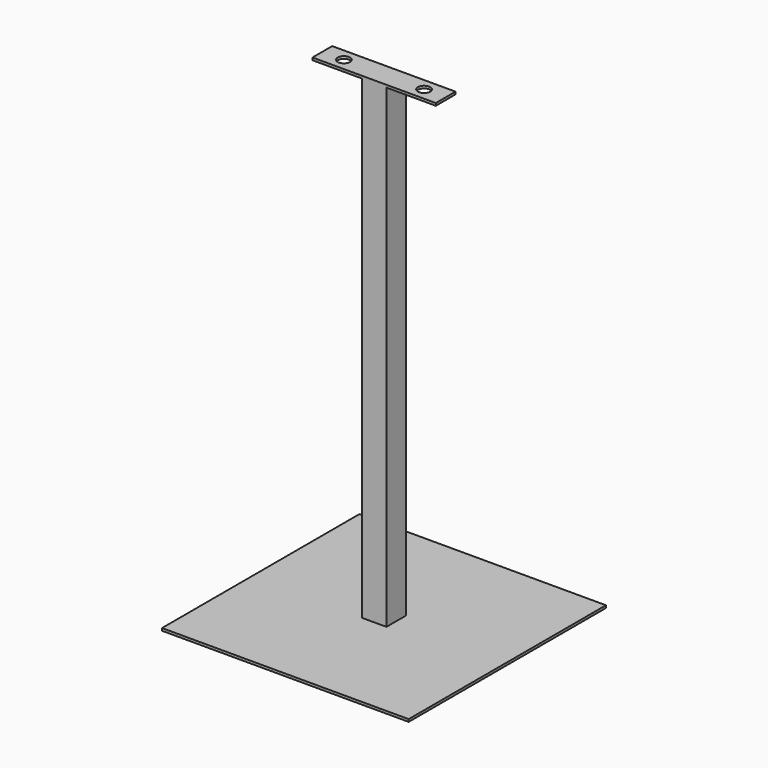
from build123d import *

# Parameters (mm, degrees)
F0_W     = 400
F0_H     = 400
F1_DEPTH = 4
F2_W     = 40
F2_H     = 40
F3_DEPTH = 770
F4_W     = 200
F4_H     = 40
F5_DEPTH = 4
F8_D     = 20
F8_DEPTH = 20
F9_D     = 20
F9_DEPTH = 20


with BuildPart() as f1:
    # F0 (on Top) → F1 (new body)
    with BuildSketch(Plane.XY):
        Rectangle(F0_W, F0_H)
    extrude(amount=F1_DEPTH)

    # F2 (on face) → F3 (join)
    with BuildSketch(Plane.XY.offset(4)):
        Rectangle(F2_W, F2_H)
    extrude(amount=F3_DEPTH)

    # F4 (on face) → F5 (join)
    with BuildSketch(Plane.XY.offset(774)):
        Rectangle(F4_W, F4_H)
    extrude(amount=F5_DEPTH)

    # F8
    with Locations(Plane.XY.offset(778)):
        with Locations((-65, 0)):
            Hole(F8_D / 2, depth=F8_DEPTH)

    # F9
    with Locations(Plane.XY.offset(778)):
        with Locations((65, 0)):
            Hole(F9_D / 2, depth=F9_DEPTH)


solid = f1.part
